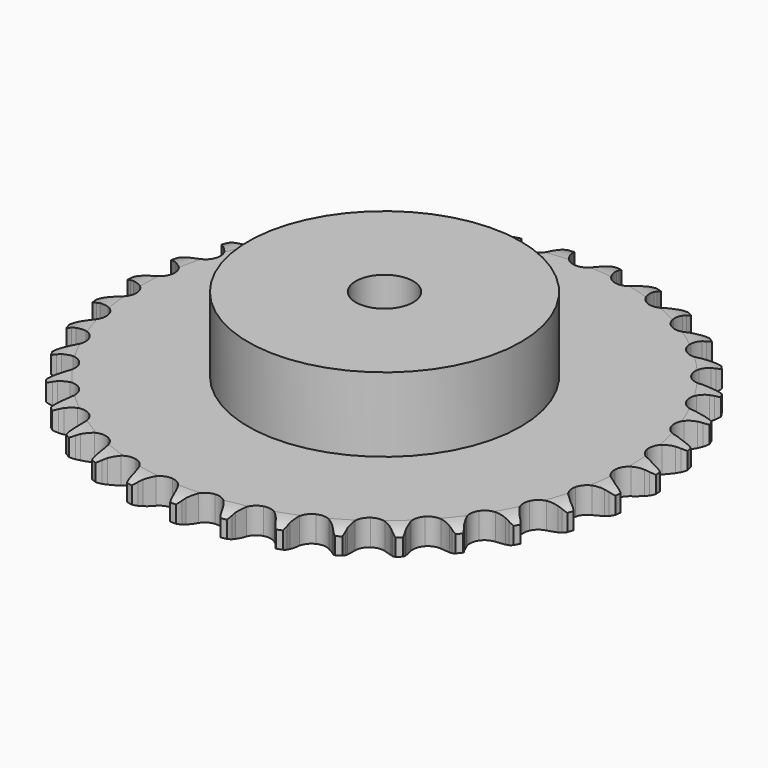
from build123d import *

# Parameters (mm, degrees)
PAD_DEPTH         = 9.1
SKETCH001_R       = 47.5
PAD001_DEPTH      = 35
SKETCH002_R       = 10
POCKET_DEPTH      = 0.001
POCKET_DEPTH_BACK = 35.001


with BuildPart() as part:
    # Sprocket → Pad (new body)
    with BuildSketch(Plane.XY):
        with BuildLine():
            ThreePointArc((-8.385006, 93.16505), (-7.238403, 91.760674), (-6.426064, 90.139849))
            Line((-6.426064, 90.139849), (-5.930423, 88.800984))
            ThreePointArc((-5.930423, 88.800984), (-5.146021, 87.072923), (-4.123166, 85.474409))
            ThreePointArc((-4.123166, 85.474409), (-2.306488, 83.951963), (0, 83.405822))
            ThreePointArc((0, 83.405822), (2.306488, 83.951963), (4.123166, 85.474409))
            ThreePointArc((4.123166, 85.474409), (5.146021, 87.072923), (5.930423, 88.800984))
            Line((5.930423, 88.800984), (6.426064, 90.139849))
            ThreePointArc((6.426064, 90.139849), (7.238403, 91.760674), (8.385006, 93.16505))
            ThreePointArc((8.385006, 93.16505), (9.262422, 91.578509), (9.772297, 89.838682))
            Line((9.772297, 89.838682), (10.020909, 88.432833))
            ThreePointArc((10.020909, 88.432833), (10.484149, 86.592483), (11.205139, 84.83702))
            ThreePointArc((11.205139, 84.83702), (12.72078, 83.01466), (14.892685, 82.065456))
            ThreePointArc((14.892685, 82.065456), (17.259624, 82.190981), (19.31895, 83.36458))
            Line((19.31895, 83.36458), (21.691147, 86.314997))
            ThreePointArc((21.691147, 86.314997), (22.037981, 86.939201), (22.417886, 87.543846))
            ThreePointArc((22.417886, 87.543846), (23.50658, 88.993575), (24.885518, 90.170648))
            ThreePointArc((24.885518, 90.170648), (25.465545, 88.452935), (25.656568, 86.650027))
            Line((25.656568, 86.650027), (25.650161, 85.222379))
            ThreePointArc((25.650161, 85.222379), (25.777349, 83.328889), (26.173303, 81.472899))
            ThreePointArc((26.173303, 81.472899), (27.339192, 79.409197), (29.306706, 78.087439))
            ThreePointArc((29.306706, 78.087439), (31.658021, 77.788314), (33.893808, 78.575345))
            Line((33.893808, 78.575345), (36.754699, 81.054776))
            ThreePointArc((36.754699, 81.054776), (37.207415, 81.607019), (37.689179, 82.134112))
            ThreePointArc((37.689179, 82.134112), (39.019236, 83.36615), (40.586188, 84.278088))
            ThreePointArc((40.586188, 84.278088), (40.850185, 82.484412), (40.716216, 80.676368))
            Line((40.716216, 80.676368), (40.454996, 79.272807))
            ThreePointArc((40.454996, 79.272807), (40.242044, 77.387036), (40.300235, 75.490172))
            ThreePointArc((40.300235, 75.490172), (41.078899, 73.251458), (42.778786, 71.599627))
            ThreePointArc((42.778786, 71.599627), (45.038903, 70.885465), (47.37929, 71.260634))
            Line((47.37929, 71.260634), (50.636925, 73.189387))
            ThreePointArc((50.636925, 73.189387), (51.180973, 73.65192), (51.74911, 74.084521))
            ThreePointArc((51.74911, 74.084521), (53.277782, 75.059268), (54.982385, 75.676761))
            ThreePointArc((54.982385, 75.676761), (54.921866, 73.864771), (54.467212, 72.109705))
            Line((54.467212, 72.109705), (53.959573, 70.775342))
            ThreePointArc((53.959573, 70.775342), (53.413327, 68.9579), (53.131884, 67.081129))
            ThreePointArc((53.131884, 67.081129), (53.498297, 64.739356), (54.87592, 62.810544))
            ThreePointArc((54.87592, 62.810544), (56.972198, 61.7043), (59.341963, 61.655547))
            Line((59.341963, 61.655547), (62.891639, 62.971632))
            ThreePointArc((62.891639, 62.971632), (63.509531, 63.329588), (64.145783, 63.653792))
            ThreePointArc((64.145783, 63.653792), (65.823936, 64.33992), (67.611403, 64.64312))
            ThreePointArc((67.611403, 64.64312), (67.228313, 62.871056), (66.467586, 61.225376))
            Line((66.467586, 61.225376), (65.729846, 60.0031))
            ThreePointArc((65.729846, 60.0031), (64.867861, 58.312401), (64.255831, 56.516043))
            ThreePointArc((64.255831, 56.516043), (64.198216, 54.146478), (65.209297, 52.002679))
            ThreePointArc((65.209297, 52.002679), (67.07436, 50.539908), (69.397336, 50.068801))
            Line((69.397336, 50.068801), (73.124963, 50.729916))
            ThreePointArc((73.124963, 50.729916), (73.796842, 50.971791), (74.480757, 51.177177))
            ThreePointArc((74.480757, 51.177177), (76.254454, 51.552633), (78.067335, 51.531797))
            ThreePointArc((78.067335, 51.531797), (77.373987, 49.856613), (76.331638, 48.373213))
            Line((76.331638, 48.373213), (75.387508, 47.302308))
            ThreePointArc((75.387508, 47.302308), (74.237489, 45.792693), (73.314543, 44.134486))
            ThreePointArc((73.314543, 44.134486), (72.834751, 41.813288), (73.446794, 39.523405))
            ThreePointArc((73.446794, 39.523405), (75.020696, 37.751121), (77.222222, 36.872802))
            Line((77.222222, 36.872802), (81.007991, 36.857699))
            ThreePointArc((81.007991, 36.857699), (81.712261, 36.975718), (82.421859, 37.055686))
            ThreePointArc((82.421859, 37.055686), (84.234092, 37.108402), (86.014118, 36.764198))
            ThreePointArc((86.014118, 36.764198), (85.032797, 35.239738), (83.742327, 33.966295))
            Line((83.742327, 33.966295), (82.622153, 33.081181))
            ThreePointArc((82.622153, 33.081181), (81.221063, 31.80117), (80.016865, 30.334409))
            ThreePointArc((80.016865, 30.334409), (79.130318, 28.136184), (79.32365, 25.773816))
            ThreePointArc((79.32365, 25.773816), (80.555806, 23.748983), (82.565122, 22.49168))
            Line((82.565122, 22.49168), (86.287356, 21.800845))
            ThreePointArc((86.287356, 21.800845), (87.001381, 21.791216), (87.713854, 21.743195))
            ThreePointArc((87.713854, 21.743195), (89.506377, 21.471477), (91.196337, 20.814969))
            ThreePointArc((91.196337, 20.814969), (89.958584, 19.490229), (88.46147, 18.467673))
            Line((88.46147, 18.467673), (87.201254, 17.796798))
            ThreePointArc((87.201254, 17.796798), (85.594125, 16.787531), (84.147379, 15.55936))
            ThreePointArc((84.147379, 15.55936), (82.882571, 13.55476), (82.650979, 11.195836))
            ThreePointArc((82.650979, 11.195836), (83.501786, 8.983532), (85.254311, 7.387658))
            Line((85.254311, 7.387658), (88.793374, 6.043294))
            ThreePointArc((88.793374, 6.043294), (89.494204, 5.906325), (90.186653, 5.731859))
            ThreePointArc((90.186653, 5.731859), (91.901853, 5.144441), (93.447431, 4.196729))
            ThreePointArc((93.447431, 4.196729), (91.993027, 3.114288), (90.337388, 2.375485))
            Line((90.337388, 2.375485), (88.977635, 1.940411))
            ThreePointArc((88.977635, 1.940411), (87.216122, 1.234327), (85.573327, 0.28422))
            ThreePointArc((85.573327, 0.28422), (83.97091, -1.462325), (83.321838, -3.741988))
            ThreePointArc((83.321838, -3.741988), (83.763949, -6.070656), (85.203356, -7.95381))
            Line((85.203356, -7.95381), (88.4455, -9.908493))
            ThreePointArc((88.4455, -9.908493), (89.110611, -10.168399), (89.76078, -10.463703))
            ThreePointArc((89.76078, -10.463703), (91.343527, -11.347942), (92.695047, -12.556397))
            ThreePointArc((92.695047, -12.556397), (91.070739, -13.36175), (89.309788, -13.793054))
            Line((89.309788, -13.793054), (87.894201, -13.978342))
            ThreePointArc((87.894201, -13.978342), (86.034921, -14.358549), (84.248878, -15.000055))
            ThreePointArc((84.248878, -15.000055), (82.360354, -16.432409), (81.314664, -18.559541))
            ThreePointArc((81.314664, -18.559541), (81.33387, -20.929729), (82.413896, -23.039635))
            Line((82.413896, -23.039635), (85.254914, -25.541813))
            ThreePointArc((85.254914, -25.541813), (85.862929, -25.916302), (86.449921, -26.322953))
            ThreePointArc((86.449921, -26.322953), (87.849346, -27.475592), (88.963368, -28.90595))
            ThreePointArc((88.963368, -28.90595), (87.221362, -29.408329), (85.411698, -29.518272))
            Line((85.411698, -29.518272), (83.985776, -29.44782))
            ThreePointArc((83.985776, -29.44782), (82.088486, -29.489929), (80.2166, -29.802216))
            ThreePointArc((80.2166, -29.802216), (78.102669, -30.874343), (76.693969, -32.780576))
            ThreePointArc((76.693969, -32.780576), (76.289654, -35.116103), (76.975585, -37.384948))
            Line((76.975585, -37.384948), (79.324166, -40.354199))
            ThreePointArc((79.324166, -40.354199), (79.855542, -40.831235), (80.36049, -41.336161))
            ThreePointArc((80.36049, -41.336161), (81.531615, -42.720155), (82.372333, -44.326443))
            ThreePointArc((82.372333, -44.326443), (80.568619, -44.509701), (78.768406, -44.294749))
            Line((78.768406, -44.294749), (77.377978, -43.970821))
            ThreePointArc((77.377978, -43.970821), (75.50366, -43.673479), (73.606095, -43.646509))
            ThreePointArc((73.606095, -43.646509), (71.334701, -44.32395), (69.608268, -45.948015))
            ThreePointArc((69.608268, -45.948015), (68.793426, -48.173817), (69.063215, -50.528678))
            Line((69.063215, -50.528678), (70.843874, -53.869567))
            ThreePointArc((70.843874, -53.869567), (71.281532, -54.433818), (71.688207, -55.020792))
            ThreePointArc((71.688207, -55.020792), (72.59339, -56.591656), (73.133784, -58.322247))
            ThreePointArc((73.133784, -58.322247), (71.326334, -58.180494), (69.593433, -57.647556))
            Line((69.593433, -57.647556), (68.283189, -57.080563))
            ThreePointArc((68.283189, -57.080563), (66.492085, -56.453328), (64.62983, -56.087968))
            ThreePointArc((64.62983, -56.087968), (62.273976, -56.348948), (60.2853, -57.638648))
            ThreePointArc((60.2853, -57.638648), (59.08612, -59.683184), (58.931097, -62.048375))
            Line((58.931097, -62.048375), (60.086601, -65.653523))
            ThreePointArc((60.086601, -65.653523), (60.416475, -66.286853), (60.711807, -66.937009))
            ThreePointArc((60.711807, -66.937009), (61.321954, -68.644255), (61.544655, -70.443525))
            ThreePointArc((61.544655, -70.443525), (59.791562, -69.981318), (58.181669, -69.147524))
            Line((58.181669, -69.147524), (56.993722, -68.355689))
            ThreePointArc((56.993722, -68.355689), (55.343399, -67.418719), (53.576309, -66.726713))
            ThreePointArc((53.576309, -66.726713), (51.211714, -66.562845), (49.024712, -67.476727))
            ThreePointArc((49.024712, -67.476727), (47.479738, -69.274285), (46.904885, -71.573786))
            Line((46.904885, -71.573786), (47.398095, -75.32732))
            ThreePointArc((47.398095, -75.32732), (47.609583, -76.009374), (47.784079, -76.701815))
            ThreePointArc((47.784079, -76.701815), (48.07958, -78.490571), (47.97743, -80.300691))
            ThreePointArc((47.97743, -80.300691), (46.33504, -79.532885), (44.899898, -78.425033))
            Line((44.899898, -78.425033), (43.87243, -77.433807))
            ThreePointArc((43.87243, -77.433807), (42.41593, -76.217218), (40.800801, -75.220806))
            ThreePointArc((40.800801, -75.220806), (38.503466, -74.637358), (36.18843, -75.146049))
            ThreePointArc((36.18843, -75.146049), (34.347318, -76.638853), (33.371111, -78.798756))
            Line((33.371111, -78.798756), (33.186176, -82.580036))
            ThreePointArc((33.186176, -82.580036), (33.272479, -83.288891), (33.320531, -84.001362))
            ThreePointArc((33.320531, -84.001362), (33.291888, -85.814136), (32.868171, -87.576927))
            ThreePointArc((32.868171, -87.576927), (31.389272, -86.5282), (30.175008, -85.181897))
            Line((30.175008, -85.181897), (29.341042, -84.023139))
            ThreePointArc((29.341042, -84.023139), (28.125179, -82.566033), (26.713921, -81.297241))
            ThreePointArc((26.713921, -81.297241), (24.557685, -80.312964), (22.189022, -80.400114))
            ThreePointArc((22.189022, -80.400114), (20.110946, -81.540186), (18.764763, -83.49107))
            Line((18.764763, -83.49107), (17.907626, -87.178561))
            ThreePointArc((17.907626, -87.178561), (17.865971, -87.891435), (17.786034, -88.601036))
            ThreePointArc((17.786034, -88.601036), (17.434168, -90.379564), (16.702501, -92.038368))
            ThreePointArc((16.702501, -92.038368), (15.434627, -90.742427), (14.480269, -89.200944))
            Line((14.480269, -89.200944), (13.866608, -87.911898))
            ThreePointArc((13.866608, -87.911898), (12.930461, -86.261108), (11.768435, -84.760716))
            ThreePointArc((11.768435, -84.760716), (9.822599, -83.407245), (7.47644, -83.070054))
            ThreePointArc((7.47644, -83.070054), (5.228193, -83.820749), (3.555299, -85.499912))
            Line((3.555299, -85.499912), (2.053509, -88.975096))
            ThreePointArc((2.053509, -88.975096), (1.885236, -89.669076), (1.679879, -90.353))
            ThreePointArc((1.679879, -90.353), (1.0161, -92.040118), (0, -93.541621))
            ThreePointArc((0, -93.541621), (-1.0161, -92.040118), (-1.679879, -90.353))
            Line((-1.679879, -90.353), (-2.053509, -88.975096))
            ThreePointArc((-2.053509, -88.975096), (-2.679852, -87.183679), (-3.555299, -85.499912))
            ThreePointArc((-3.555299, -85.499912), (-5.228193, -83.820749), (-7.47644, -83.070054))
            ThreePointArc((-7.47644, -83.070054), (-9.822599, -83.407245), (-11.768435, -84.760716))
            Line((-11.768435, -84.760716), (-13.866608, -87.911898))
            ThreePointArc((-13.866608, -87.911898), (-14.156092, -88.564679), (-14.480269, -89.200944))
            ThreePointArc((-14.480269, -89.200944), (-15.434627, -90.742427), (-16.702501, -92.038368))
            ThreePointArc((-16.702501, -92.038368), (-17.434168, -90.379564), (-17.786034, -88.601036))
            Line((-17.786034, -88.601036), (-17.907626, -87.178561))
            ThreePointArc((-17.907626, -87.178561), (-18.204033, -85.304095), (-18.764763, -83.49107))
            ThreePointArc((-18.764763, -83.49107), (-20.110946, -81.540186), (-22.189022, -80.400114))
            ThreePointArc((-22.189022, -80.400114), (-24.557685, -80.312964), (-26.713921, -81.297241))
            Line((-26.713921, -81.297241), (-29.341042, -84.023139))
            ThreePointArc((-29.341042, -84.023139), (-29.742432, -84.61374), (-30.175008, -85.181897))
            ThreePointArc((-30.175008, -85.181897), (-31.389272, -86.5282), (-32.868171, -87.576927))
            ThreePointArc((-32.868171, -87.576927), (-33.291888, -85.814136), (-33.320531, -84.001362))
            Line((-33.320531, -84.001362), (-33.186176, -82.580036))
            ThreePointArc((-33.186176, -82.580036), (-33.143121, -80.682768), (-33.371111, -78.798756))
            ThreePointArc((-33.371111, -78.798756), (-34.347318, -76.638853), (-36.18843, -75.146049))
            ThreePointArc((-36.18843, -75.146049), (-38.503466, -74.637358), (-40.800801, -75.220806))
            Line((-40.800801, -75.220806), (-43.87243, -77.433807))
            ThreePointArc((-43.87243, -77.433807), (-44.372826, -77.943246), (-44.899898, -78.425033))
            ThreePointArc((-44.899898, -78.425033), (-46.33504, -79.532885), (-47.97743, -80.300691))
            ThreePointArc((-47.97743, -80.300691), (-48.07958, -78.490571), (-47.784079, -76.701815))
            Line((-47.784079, -76.701815), (-47.398095, -75.32732))
            ThreePointArc((-47.398095, -75.32732), (-47.016962, -73.46823), (-46.904885, -71.573786))
            ThreePointArc((-46.904885, -71.573786), (-47.479738, -69.274285), (-49.024712, -67.476727))
            ThreePointArc((-49.024712, -67.476727), (-51.211714, -66.562845), (-53.576309, -66.726713))
            Line((-53.576309, -66.726713), (-56.993722, -68.355689))
            ThreePointArc((-56.993722, -68.355689), (-57.57704, -68.767592), (-58.181669, -69.147524))
            ThreePointArc((-58.181669, -69.147524), (-59.791562, -69.981318), (-61.544655, -70.443525))
            ThreePointArc((-61.544655, -70.443525), (-61.321954, -68.644255), (-60.711807, -66.937009))
            Line((-60.711807, -66.937009), (-60.086601, -65.653523))
            ThreePointArc((-60.086601, -65.653523), (-59.379639, -63.892363), (-58.931097, -62.048375))
            ThreePointArc((-58.931097, -62.048375), (-59.08612, -59.683184), (-60.2853, -57.638648))
            ThreePointArc((-60.2853, -57.638648), (-62.273976, -56.348948), (-64.62983, -56.087968))
            Line((-64.62983, -56.087968), (-68.283189, -57.080563))
            ThreePointArc((-68.283189, -57.080563), (-68.930681, -57.381691), (-69.593433, -57.647556))
            ThreePointArc((-69.593433, -57.647556), (-71.326334, -58.180494), (-73.133784, -58.322247))
            ThreePointArc((-73.133784, -58.322247), (-72.59339, -56.591656), (-71.688207, -55.020792))
            Line((-71.688207, -55.020792), (-70.843874, -53.869567))
            ThreePointArc((-70.843874, -53.869567), (-69.833806, -52.262942), (-69.063215, -50.528678))
            ThreePointArc((-69.063215, -50.528678), (-68.793426, -48.173817), (-69.608268, -45.948015))
            ThreePointArc((-69.608268, -45.948015), (-71.334701, -44.32395), (-73.606095, -43.646509))
            Line((-73.606095, -43.646509), (-77.377978, -43.970821))
            ThreePointArc((-77.377978, -43.970821), (-78.068833, -44.151495), (-78.768406, -44.294749))
            ThreePointArc((-78.768406, -44.294749), (-80.568619, -44.509701), (-82.372333, -44.326443))
            ThreePointArc((-82.372333, -44.326443), (-81.531615, -42.720155), (-80.36049, -41.336161))
            Line((-80.36049, -41.336161), (-79.324166, -40.354199))
            ThreePointArc((-79.324166, -40.354199), (-78.043456, -38.953748), (-76.975585, -37.384948))
            ThreePointArc((-76.975585, -37.384948), (-76.289654, -35.116103), (-76.693969, -32.780576))
            ThreePointArc((-76.693969, -32.780576), (-78.102669, -30.874343), (-80.2166, -29.802216))
            Line((-80.2166, -29.802216), (-83.985776, -29.44782))
            ThreePointArc((-83.985776, -29.44782), (-84.697789, -29.502234), (-85.411698, -29.518272))
            ThreePointArc((-85.411698, -29.518272), (-87.221362, -29.408329), (-88.963368, -28.90595))
            ThreePointArc((-88.963368, -28.90595), (-87.849346, -27.475592), (-86.449921, -26.322953))
            Line((-86.449921, -26.322953), (-85.254914, -25.541813))
            ThreePointArc((-85.254914, -25.541813), (-83.744726, -24.392548), (-82.413896, -23.039635))
            ThreePointArc((-82.413896, -23.039635), (-81.33387, -20.929729), (-81.314664, -18.559541))
            ThreePointArc((-81.314664, -18.559541), (-82.360354, -16.432409), (-84.248878, -15.000055))
            Line((-84.248878, -15.000055), (-87.894201, -13.978342))
            ThreePointArc((-87.894201, -13.978342), (-88.604488, -13.904747), (-89.309788, -13.793054))
            ThreePointArc((-89.309788, -13.793054), (-91.070739, -13.36175), (-92.695047, -12.556397))
            ThreePointArc((-92.695047, -12.556397), (-91.343527, -11.347942), (-89.76078, -10.463703))
            Line((-89.76078, -10.463703), (-88.4455, -9.908493))
            ThreePointArc((-88.4455, -9.908493), (-86.754371, -9.047351), (-85.203356, -7.95381))
            ThreePointArc((-85.203356, -7.95381), (-83.763949, -6.070656), (-83.321838, -3.741988))
            ThreePointArc((-83.321838, -3.741988), (-83.97091, -1.462325), (-85.573327, 0.28422))
            Line((-85.573327, 0.28422), (-88.977635, 1.940411))
            ThreePointArc((-88.977635, 1.940411), (-89.663366, 2.13965), (-90.337388, 2.375485))
            ThreePointArc((-90.337388, 2.375485), (-91.993027, 3.114288), (-93.447431, 4.196729))
            ThreePointArc((-93.447431, 4.196729), (-91.901853, 5.144441), (-90.186653, 5.731859))
            Line((-90.186653, 5.731859), (-88.793374, 6.043294))
            ThreePointArc((-88.793374, 6.043294), (-86.97566, 6.588635), (-85.254311, 7.387658))
            ThreePointArc((-85.254311, 7.387658), (-83.501786, 8.983532), (-82.650979, 11.195836))
            ThreePointArc((-82.650979, 11.195836), (-82.882571, 13.55476), (-84.147379, 15.55936))
            Line((-84.147379, 15.55936), (-87.201254, 17.796798))
            ThreePointArc((-87.201254, 17.796798), (-87.840389, 18.115277), (-88.46147, 18.467673))
            ThreePointArc((-88.46147, 18.467673), (-89.958584, 19.490229), (-91.196337, 20.814969))
            ThreePointArc((-91.196337, 20.814969), (-89.506377, 21.471477), (-87.713854, 21.743195))
            Line((-87.713854, 21.743195), (-86.287356, 21.800845))
            ThreePointArc((-86.287356, 21.800845), (-84.401479, 22.012856), (-82.565122, 22.49168))
            ThreePointArc((-82.565122, 22.49168), (-80.555806, 23.748983), (-79.32365, 25.773816))
            ThreePointArc((-79.32365, 25.773816), (-79.130318, 28.136184), (-80.016865, 30.334409))
            Line((-80.016865, 30.334409), (-82.622153, 33.081181))
            ThreePointArc((-82.622153, 33.081181), (-83.194151, 33.508665), (-83.742327, 33.966295))
            ThreePointArc((-83.742327, 33.966295), (-85.032797, 35.239738), (-86.014118, 36.764198))
            ThreePointArc((-86.014118, 36.764198), (-84.234092, 37.108402), (-82.421859, 37.055686))
            Line((-82.421859, 37.055686), (-81.007991, 36.857699))
            ThreePointArc((-81.007991, 36.857699), (-79.114565, 36.729567), (-77.222222, 36.872802))
            ThreePointArc((-77.222222, 36.872802), (-75.020696, 37.751121), (-73.446794, 39.523405))
            ThreePointArc((-73.446794, 39.523405), (-72.834751, 41.813288), (-73.314543, 44.134486))
            Line((-73.314543, 44.134486), (-75.387508, 47.302308))
            ThreePointArc((-75.387508, 47.302308), (-75.873983, 47.825056), (-76.331638, 48.373213))
            ThreePointArc((-76.331638, 48.373213), (-77.373987, 49.856613), (-78.067335, 51.531797))
            ThreePointArc((-78.067335, 51.531797), (-76.254454, 51.552633), (-74.480757, 51.177177))
            Line((-74.480757, 51.177177), (-73.124963, 50.729916))
            ThreePointArc((-73.124963, 50.729916), (-71.284844, 50.265759), (-69.397336, 50.068801))
            ThreePointArc((-69.397336, 50.068801), (-67.07436, 50.539908), (-65.209297, 52.002679))
            ThreePointArc((-65.209297, 52.002679), (-64.198216, 54.146478), (-64.255831, 56.516043))
            Line((-64.255831, 56.516043), (-65.729846, 60.0031))
            ThreePointArc((-65.729846, 60.0031), (-66.115164, 60.60431), (-66.467586, 61.225376))
            ThreePointArc((-66.467586, 61.225376), (-67.228313, 62.871056), (-67.611403, 64.64312))
            ThreePointArc((-67.611403, 64.64312), (-65.823936, 64.33992), (-64.145783, 63.653792))
            Line((-64.145783, 63.653792), (-62.891639, 62.971632))
            ThreePointArc((-62.891639, 62.971632), (-61.16397, 62.186368), (-59.341963, 61.655547))
            ThreePointArc((-59.341963, 61.655547), (-56.972198, 61.7043), (-54.87592, 62.810544))
            ThreePointArc((-54.87592, 62.810544), (-53.498297, 64.739356), (-53.131884, 67.081129))
            Line((-53.131884, 67.081129), (-53.959573, 70.775342))
            ThreePointArc((-53.959573, 70.775342), (-54.231348, 71.435692), (-54.467212, 72.109705))
            ThreePointArc((-54.467212, 72.109705), (-54.921866, 73.864771), (-54.982385, 75.676761))
            ThreePointArc((-54.982385, 75.676761), (-53.277782, 75.059268), (-51.74911, 74.084521))
            Line((-51.74911, 74.084521), (-50.636925, 73.189387))
            ThreePointArc((-50.636925, 73.189387), (-49.077235, 72.108256), (-47.37929, 71.260634))
            ThreePointArc((-47.37929, 71.260634), (-45.038903, 70.885465), (-42.778786, 71.599627))
            ThreePointArc((-42.778786, 71.599627), (-41.078899, 73.251458), (-40.300235, 75.490172))
            Line((-40.300235, 75.490172), (-40.454996, 79.272807))
            ThreePointArc((-40.454996, 79.272807), (-40.604493, 79.971073), (-40.716216, 80.676368))
            ThreePointArc((-40.716216, 80.676368), (-40.850185, 82.484412), (-40.586188, 84.278088))
            ThreePointArc((-40.586188, 84.278088), (-39.019236, 83.36615), (-37.689179, 82.134112))
            Line((-37.689179, 82.134112), (-36.754699, 81.054776))
            ThreePointArc((-36.754699, 81.054776), (-35.413117, 79.712525), (-33.893808, 78.575345))
            ThreePointArc((-33.893808, 78.575345), (-31.658021, 77.788314), (-29.306706, 78.087439))
            ThreePointArc((-29.306706, 78.087439), (-27.339192, 79.409197), (-26.173303, 81.472899))
            Line((-26.173303, 81.472899), (-25.650161, 85.222379))
            ThreePointArc((-25.650161, 85.222379), (-25.672575, 85.936117), (-25.656568, 86.650027))
            ThreePointArc((-25.656568, 86.650027), (-25.465545, 88.452935), (-24.885518, 90.170648))
            ThreePointArc((-24.885518, 90.170648), (-23.50658, 88.993575), (-22.417886, 87.543846))
            Line((-22.417886, 87.543846), (-21.691147, 86.314997))
            ThreePointArc((-21.691147, 86.314997), (-20.610793, 84.754768), (-19.31895, 83.36458))
            ThreePointArc((-19.31895, 83.36458), (-17.259624, 82.190981), (-14.892685, 82.065456))
            ThreePointArc((-14.892685, 82.065456), (-12.72078, 83.01466), (-11.205139, 84.83702))
            Line((-11.205139, 84.83702), (-10.020909, 88.432833))
            ThreePointArc((-10.020909, 88.432833), (-9.91552, 89.139103), (-9.772297, 89.838682))
            ThreePointArc((-9.772297, 89.838682), (-9.262422, 91.578509), (-8.385006, 93.16505))
        make_face()
    extrude(amount=PAD_DEPTH)

    # Sketch → Groove (revolve, cut)
    with BuildSketch(Plane.XZ):
        with BuildLine():
            Line((85.075762, 0), (92.05, 0))
            Line((99.024238, 0), (92.05, 0))
            Line((99.024238, 9.1), (99.024238, 0))
            Line((92.05, 9.1), (99.024238, 9.1))
            Line((85.075762, 9.1), (92.05, 9.1))
            ThreePointArc((92.05, 7.5), (88.65347, 8.694871), (85.075762, 9.1))
            Line((92.05, 1.6), (92.05, 7.5))
            ThreePointArc((85.075762, 0), (88.65347, 0.405129), (92.05, 1.6))
        make_face()
    revolve(axis=Axis((0, 0, 0), (0, 0, 1)), mode=Mode.SUBTRACT)

    # Sketch001 → Pad001 (join)
    with BuildSketch(Plane.XY):
        Circle(SKETCH001_R)
    extrude(amount=PAD001_DEPTH)

    # Sketch002 → Pocket (cut, two sides)
    with BuildSketch(Plane.XY) as pocket_sk:
        Circle(SKETCH002_R)
    extrude(amount=-POCKET_DEPTH, mode=Mode.SUBTRACT)
    extrude(pocket_sk.sketch, amount=POCKET_DEPTH_BACK, mode=Mode.SUBTRACT)


solid = part.part
